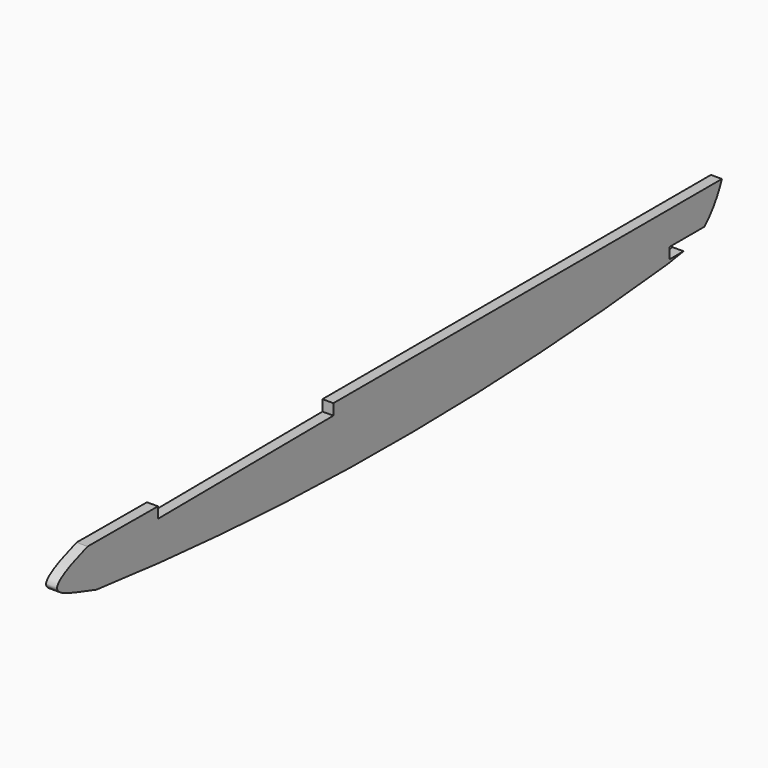
from build123d import *

# Parameters (mm, degrees)
F1_DEPTH = 6.35


with BuildPart() as f1:
    # F0 (on Right) → F1 (new body)
    with BuildSketch(Plane.YZ):
        with BuildLine():
            Line((-151.8980418446, 6.0759130949), (-151.8980418446, 12.4565647503))
            Line((-151.8980418446, 12.4565647503), (-202.891856432, 12.7))
            add(Edge.make_bspline(
                [(-202.891856432, 12.7), (-215.1206120084, 8.6726070091), (-237.16462935, -1.3730042529), (-209.9079122757, -7.5103641369), (-196.4285242841, -11.9496378127)],
                knots=[0, 0, 0, 0, 0.4756763375, 1, 1, 1, 1], degree=3))
            ThreePointArc((-196.4285242841, -11.9496378127), (10.2042676339, -24.674803041), (216.9561811447, -14.0593998225))
            Line((216.9561811447, -14.0593998225), (228.6390024621, -12.1845068598))
            Line((228.6390024621, -12.1845068598), (218.3601457434, -12.1845068598))
            Line((218.3601457434, -12.1845068598), (218.3601457434, -5.8345068598))
            Line((218.3601457434, -5.8345068598), (243.7601457434, -5.8345068598))
            add(Edge.make_bspline(
                [(243.7601457434, -5.8345068598), (248.7731428179, -1.2775582425), (253.2495546938, 5.3213927641), (256.392930619, 13.4012833565)],
                knots=[19.1722123796, 19.1722123796, 19.1722123796, 19.1722123796, 38.5768547936, 38.5768547936, 38.5768547936, 38.5768547936], degree=3))
            Line((256.392930619, 13.4012833565), (-24.8988723263, 13.4012833565))
            Line((-24.8988723263, 13.4012833565), (-24.8988723263, 7.0512833565))
            Line((-24.8988723263, 7.0512833565), (-151.8980418446, 6.0759130949))
        make_face()
    extrude(amount=F1_DEPTH)


solid = f1.part
